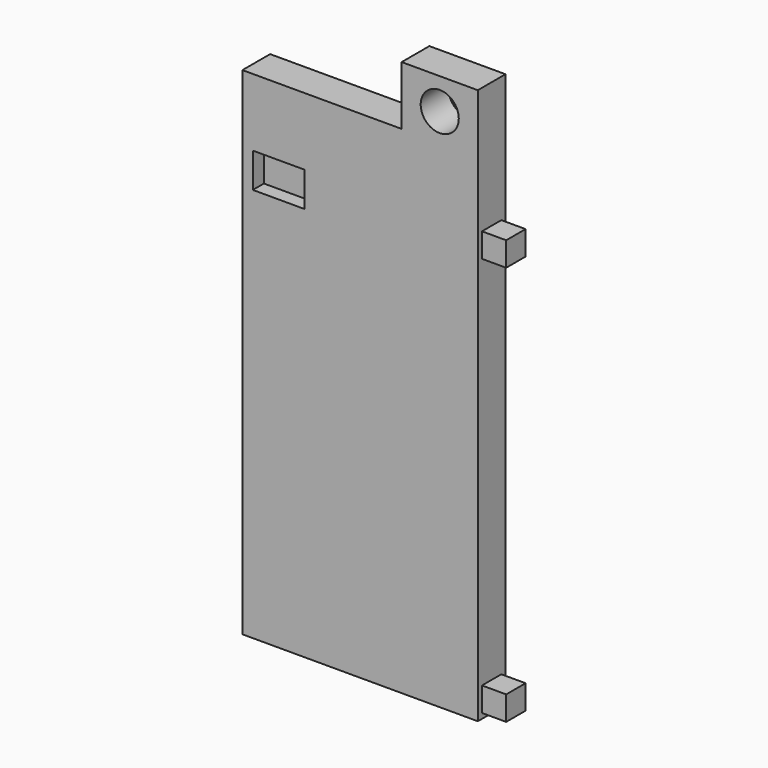
from build123d import *

# Parameters (mm, degrees)
F0_W     = 68
F0_H     = 160.5
F1_DEPTH = 10
F2_W     = 46
F2_H     = 17
F3_DEPTH = 25
F4_R     = 5.5
F5_DEPTH = 25
F6_W     = 15
F6_H     = 10
F7_DEPTH = 4
F8_W     = 7
F8_H     = 7
F9_DEPTH = 7


with BuildPart() as f1:
    # F0 (on Front) → F1 (new body)
    with BuildSketch(Plane.XZ):
        with Locations((4.173387, 26.878738)):
            Rectangle(F0_W, F0_H)
    extrude(amount=F1_DEPTH)

    # F2 (on face) → F3 (cut)
    with BuildSketch(Plane.XZ.offset(10)):
        with Locations((-6.826613, 98.628738)):
            Rectangle(F2_W, F2_H)
    extrude(amount=-F3_DEPTH, mode=Mode.SUBTRACT)

    # F4 (on face) → F5 (cut)
    with BuildSketch(Plane.XZ.offset(10)):
        with Locations((27.173387, 98.128738)):
            Circle(F4_R)
    extrude(amount=-F5_DEPTH, mode=Mode.SUBTRACT)

    # F6 (on face) → F7 (cut)
    with BuildSketch(Plane.XZ.offset(10)):
        with Locations((-19.326613, 65.628738)):
            Rectangle(F6_W, F6_H)
    extrude(amount=-F7_DEPTH, mode=Mode.SUBTRACT)

    # F8 (on face) → F9 (join)
    with BuildSketch(Plane.YZ.offset(38.173387)):
        with Locations((-5, -48.371262)):
            Rectangle(F8_W, F8_H)
        with Locations((-5, 67.128738)):
            Rectangle(F8_W, F8_H)
    extrude(amount=F9_DEPTH)


solid = f1.part
